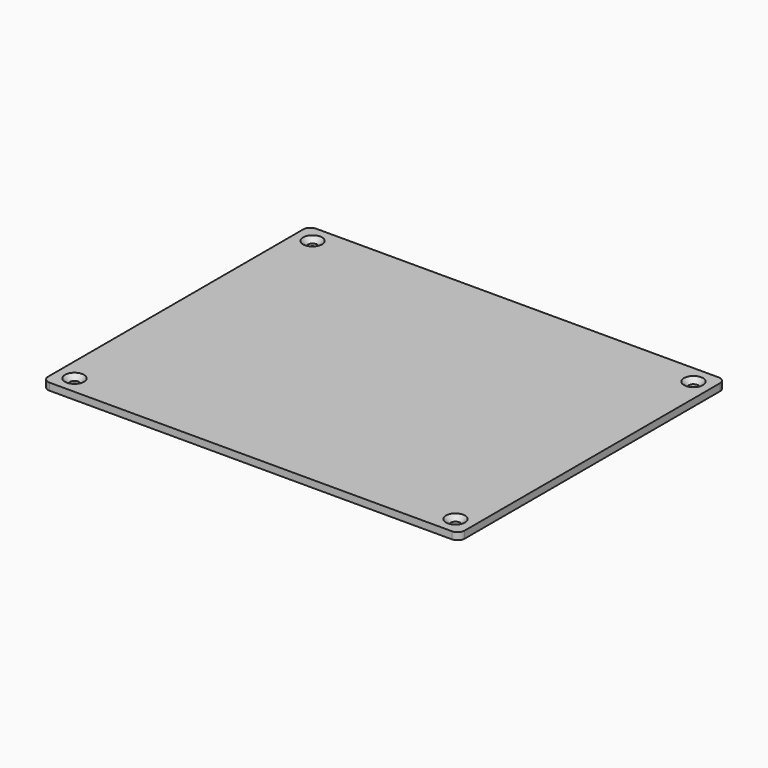
from build123d import *

# Parameters (mm, degrees)
SKETCH008_W     = 175
SKETCH008_H     = 140
PAD002_DEPTH    = 3
PAD003_DEPTH    = 2
SKETCH010_R     = 2
POCKET006_DEPTH = 3.001
CHAMFER001_SIZE = 2
FILLET001_R     = 3


with BuildPart() as part:
    # Sketch008 → Pad002 (new body)
    with BuildSketch(Plane.XY):
        with Locations((84.5, 67)):
            Rectangle(SKETCH008_W, SKETCH008_H)
    extrude(amount=PAD002_DEPTH)

    # Sketch009 → Pad003 (join)
    with BuildSketch(Plane.XY):
        Polygon((0.5, 9.5), (0.5, 124.5), (9.5, 124.5), (9.5, 133.5), (159.5, 133.5), (159.5, 124.5), (168.5, 124.5), (168.5, 9.5), (159.5, 9.5), (159.5, 0.5), (9.5, 0.5), (9.5, 9.5), align=None)
    extrude(amount=-PAD003_DEPTH)

    # Sketch010 → Pocket006 (cut, through all)
    with BuildSketch(Plane.XY):
        with Locations((4.5, 4.5)):
            Circle(SKETCH010_R)
        with Locations((164.5, 129.5)):
            Circle(SKETCH010_R)
        with Locations((164.5, 4.5)):
            Circle(SKETCH010_R)
        with Locations((4.5, 129.5)):
            Circle(SKETCH010_R)
    extrude(amount=POCKET006_DEPTH, mode=Mode.SUBTRACT)

    # Chamfer001
    chamfer001_edges = [part.edges().sort_by_distance(p)[0] for p in [
        (2.5, 129.5, 3),
        (162.5, 129.5, 3),
        (162.5, 4.5, 3),
        (2.5, 4.5, 3),
    ]]
    chamfer(chamfer001_edges, length=CHAMFER001_SIZE)

    # Fillet001
    fillet001_edges = [part.edges().sort_by_distance(p)[0] for p in [
        (172, -3, 1.5),
        (172, 137, 1.5),
        (-3, -3, 1.5),
        (-3, 137, 1.5),
    ]]
    fillet(fillet001_edges, radius=FILLET001_R)


with BuildPart() as part_1:
    # Body placement: moved
    add(part.part.moved(Location((0, 0, 150))))


solid = part_1.part
